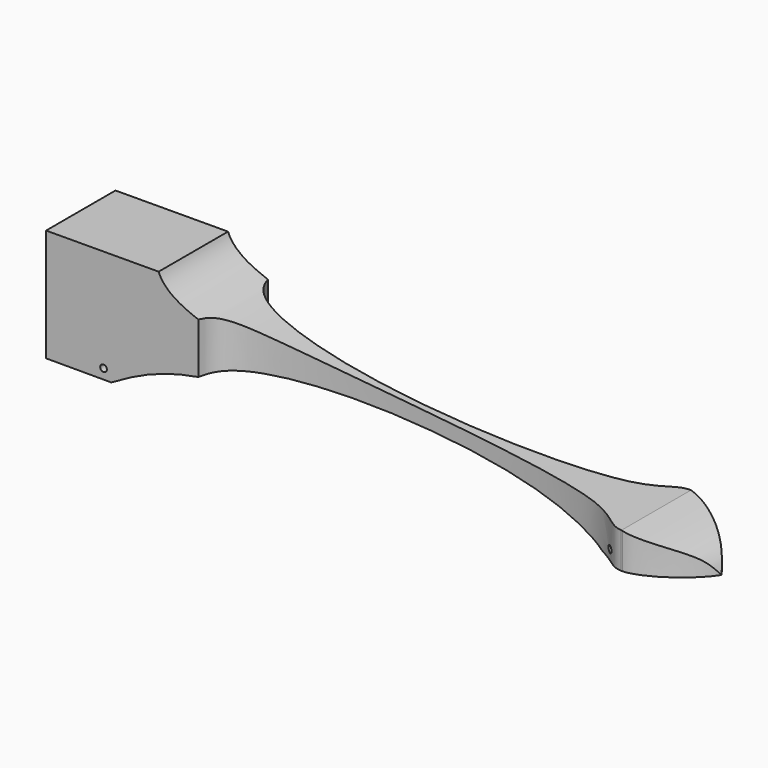
from build123d import *

# Parameters (mm, degrees)
F1_DEPTH  = 41.275
F4_DEPTH  = 50.8
F6_DEPTH  = 50.8
F2_R      = 9.525
F8_DEPTH  = 40.64
F10_DEPTH = 76.2
F12_DEPTH = 76.2
F13_R     = 1.5875
F14_DEPTH = 76.2
F17_DEPTH = 62.23


with BuildPart() as f1:
    # F0 (on Front) → F1 (new body)
    with BuildSketch(Plane.XZ):
        Polygon((0, 69.85), (0, 0), (304.8, 0), (304.8, 15.875), align=None)
    extrude(amount=F1_DEPTH)

    # F3 (on face) → F4 (cut)
    with BuildSketch(Plane.XZ.offset(41.275)):
        Polygon((0, 69.85), (0, 58.184787631), (0, 53.5300597548), (90.3185021016, 53.8560985862), (65.8741404365, 58.184787631), align=None)
    extrude(amount=-F4_DEPTH, mode=Mode.SUBTRACT)

    # F5 (on face) → F6 (cut)
    with BuildSketch(Plane.XZ.offset(41.275)):
        with BuildLine():
            Line((90.3185021016, 53.8560985862), (53.5418294928, 53.7233392614))
            add(Edge.make_bspline(
                [(53.5418294928, 53.7233392614), (56.4824533828, 46.2066214996), (91.4116033526, 28.425516683), (198.8543161182, 19.4302725039), (304.8, 15.875)],
                knots=[0, 0, 0, 0, 0.2746756078, 1, 1, 1, 1], degree=3))
            Line((304.8, 15.875), (90.3185021016, 53.8560985862))
        make_face()
    extrude(amount=-F6_DEPTH, mode=Mode.SUBTRACT)

    # F2 (on face) → F8 (cut)
    with BuildSketch(Plane(origin=(0, 0, 0), x_dir=(0, -1, 0), z_dir=(-1, 0, 0))):
        with Locations((20.6375, 34.925)):
            Circle(F2_R)
    extrude(amount=-F8_DEPTH, mode=Mode.SUBTRACT)

    # F9 (on face) → F10 (cut)
    with BuildSketch(Plane.XZ.offset(41.275)):
        with BuildLine():
            add(Edge.make_bspline(
                [(30.9645850211, 0), (42.2911233881, 6.4197749309), (73.0536327005, 23.8556745587), (211.7214105709, 15.2963864489), (245.9534597156, 4.1828139767), (258.8373720646, 0)],
                knots=[0, 0, 0, 0, 0.266554441, 0.7239531804, 1, 1, 1, 1], degree=3))
            Line((30.9645850211, 0), (258.8373720646, 0))
        make_face()
    extrude(amount=-F10_DEPTH, mode=Mode.SUBTRACT)

    # F11 (on face) → F12 (cut)
    with BuildSketch(Plane.XZ.offset(41.275)):
        with BuildLine():
            add(Edge.make_bspline(
                [(273.7323991365, 17.0379015775), (283.798758846, 16.6191927113), (294.1580493913, 16.2321172794), (304.8, 15.875)],
                knots=[0.927143173, 0.927143173, 0.927143173, 0.927143173, 1, 1, 1, 1], degree=3))
            add(Edge.make_bspline(
                [(273.7323991365, 17.0379015775), (283.7250082421, 14.3984545825), (299.7962169588, 10.20334714), (303.4265353207, 2.7963954993), (304.8, 0)],
                knots=[0, 0, 0, 0, 0.62197011, 1, 1, 1, 1], degree=3))
            Line((304.8, 0), (304.8, 15.875))
        make_face()
    extrude(amount=-F12_DEPTH, mode=Mode.SUBTRACT)

    # F13 (on face) → F14 (cut)
    with BuildSketch(Plane.XZ.offset(41.275)):
        with Locations((27.3312442005, 4.7498)):
            Circle(F13_R)
        with Locations((265.1734352112, 4.7498)):
            Circle(F13_R)
    extrude(amount=-F14_DEPTH, mode=Mode.SUBTRACT)

    # F16 (on offset) → F17 (cut)
    with BuildSketch(Plane.XY.offset(53.34)):
        with BuildLine():
            Line((72.4639538726, -41.275), (273.5238632449, -41.275))
            add(Edge.make_bspline(
                [(72.4639538726, -41.275), (73.7737573598, -36.337798654), (82.1672662469, -18.962763346), (258.9915912151, -20.3079826413), (267.6564115266, -41.0721865757), (273.5238632449, -41.275)],
                knots=[0, 0, 0, 0, 0.1531967233, 0.6154137247, 0.777236169, 0.777236169, 0.777236169, 0.777236169], degree=3))
        make_face()
        with BuildLine():
            add(Edge.make_bspline(
                [(72.4639538726, 0), (73.7737573598, -4.937201346), (82.1672662469, -22.312236654), (258.9915912151, -20.9670173587), (267.6564115266, -0.2028134243), (273.5238632449, 0)],
                knots=[0, 0, 0, 0, 0.1531967233, 0.6154137247, 0.777236169, 0.777236169, 0.777236169, 0.777236169], degree=3))
            Line((273.5238632449, 0), (72.4639538726, 0))
        make_face()
        with BuildLine():
            Line((304.8, 0), (274.2187380791, 0))
            add(Edge.make_bspline(
                [(274.2187380791, 0), (282.4680324801, -0.275684642), (298.0676239735, -10.2774617749), (304.8, -20.6375)],
                knots=[0.7834695387, 0.7834695387, 0.7834695387, 0.7834695387, 1, 1, 1, 1], degree=3))
            Line((304.8, -20.6375), (304.8, 0))
        make_face()
        with BuildLine():
            Line((304.8, -41.275), (304.8, -20.6375))
            add(Edge.make_bspline(
                [(274.2187380791, -41.275), (282.4680324801, -40.999315358), (298.0676239735, -30.9975382251), (304.8, -20.6375)],
                knots=[0.7834695387, 0.7834695387, 0.7834695387, 0.7834695387, 1, 1, 1, 1], degree=3))
            Line((274.2187380791, -41.275), (304.8, -41.275))
        make_face()
    extrude(amount=-F17_DEPTH, mode=Mode.SUBTRACT)


solid = f1.part
